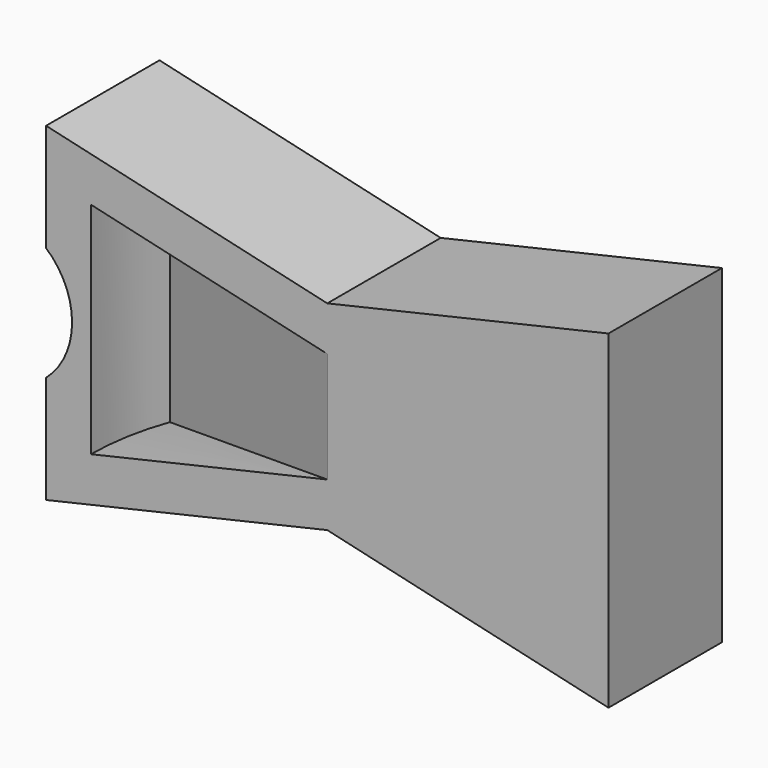
from build123d import *

# Parameters (mm, degrees)
F1_DEPTH = 7.62
F2_W     = 12.7
F2_H     = 5.9424509318
F3_ANGLE = 20
F5_DEPTH = 25.4
F7_DEPTH = 25.4


with BuildPart() as f1:
    # F0 (on Front) → F1 (new body)
    with BuildSketch(Plane.XZ):
        Polygon((15.875, -3.6650325341), (0, 0), (0, -19.622516), (15.875, -15.9574834659), align=None)
        Polygon((31.75, 0), (15.875, -3.6650325341), (15.875, -15.9574834659), (31.75, -19.622516), align=None)
    extrude(amount=F1_DEPTH)

    # F2 (on face) → F3 (revolve, cut)
    with BuildSketch(Plane.XZ.offset(7.62)):
        with Locations((9.525, -9.811258)):
            Rectangle(F2_W, F2_H)
        Polygon((15.875, -12.7824834659), (3.175, -12.7824834659), (3.175, -15.7145094932), align=None)
        Polygon((3.175, -3.9080065068), (3.175, -6.8400325341), (15.875, -6.8400325341), align=None)
    revolve(axis=Axis((15.875, -7.62, -9.811258), (0, 0, -1)), revolution_arc=F3_ANGLE, mode=Mode.SUBTRACT)

    # F4 (on face) → F5 (cut)
    with BuildSketch(Plane(origin=(0, 0, 0), x_dir=(-1, 0, 0), z_dir=(0, 1, 0))):
        Polygon((0, -19.622516), (0, 0), (-15.875, -3.6650325341), (-31.75, 0), (-31.75, -19.622516), (-15.875, -15.9574834659), align=None)
        Polygon((-15.875, -15.1754397357), (-30.988, -18.6645507082), (-30.988, -0.9579652918), (-15.875, -4.4470762643), (-0.762, -0.9579652918), (-0.762, -18.6645507082), align=None, mode=Mode.SUBTRACT)
    extrude(amount=-F5_DEPTH, mode=Mode.SUBTRACT)

    # F6 (on face) → F7 (cut)
    with BuildSketch(Plane.XZ.offset(7.62)):
        with BuildLine():
            Line((0.762, -9.811258), (0.762, -12.8777229028))
            ThreePointArc((0.762, -12.8777229028), (1.7932958238, -11.4961033935), (2.159, -9.811258))
            Line((2.159, -9.811258), (0.762, -9.811258))
        make_face()
        with BuildLine():
            Line((0.762, -6.7447930972), (0.762, -9.811258))
            Line((0.762, -9.811258), (2.159, -9.811258))
            ThreePointArc((2.159, -9.811258), (1.7932958238, -8.1264126065), (0.762, -6.7447930972))
        make_face()
    extrude(amount=-F7_DEPTH, mode=Mode.SUBTRACT)


solid = f1.part
